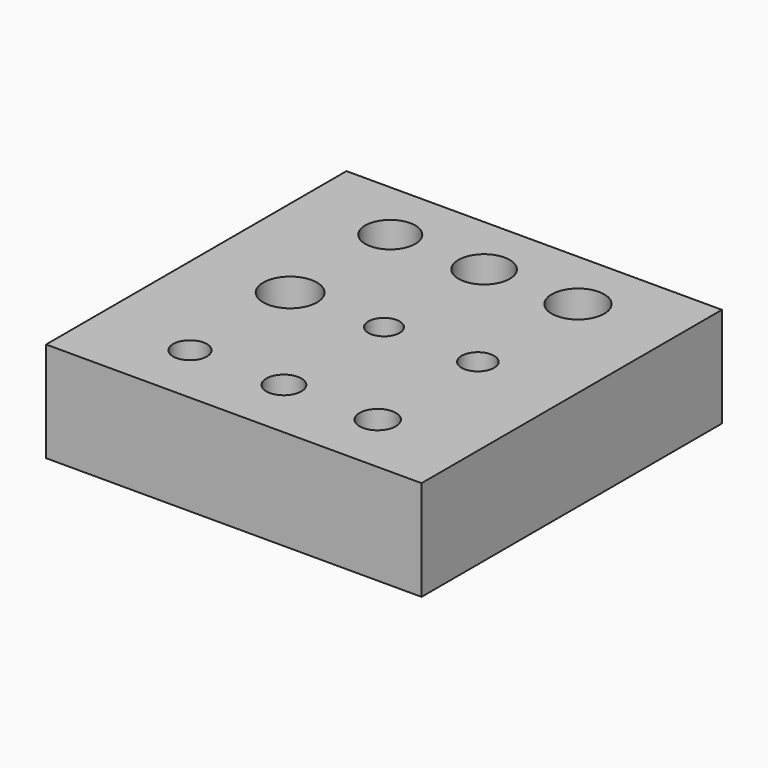
from build123d import *

# Parameters (mm, degrees)
SKETCH_W   = 30
SKETCH_H   = 30
SKETCH_R   = 2
SKETCH_R_2 = 2.05
SKETCH_R_3 = 2.1
SKETCH_R_4 = 2.15
SKETCH_R_5 = 1.25
SKETCH_R_6 = 1.45
SKETCH_R_7 = 1.4
SKETCH_R_8 = 1.35
SKETCH_R_9 = 1.3
PAD_DEPTH  = 8


with BuildPart() as part:
    # Sketch → Pad (new body)
    with BuildSketch(Plane.XY):
        Rectangle(SKETCH_W, SKETCH_H)
        with Locations((-7.5, 10)):
            Circle(SKETCH_R, mode=Mode.SUBTRACT)
        with Locations((0, 10)):
            Circle(SKETCH_R_2, mode=Mode.SUBTRACT)
        with Locations((7.5, 10)):
            Circle(SKETCH_R_3, mode=Mode.SUBTRACT)
        with Locations((-7.5, 0)):
            Circle(SKETCH_R_4, mode=Mode.SUBTRACT)
        Circle(SKETCH_R_5, mode=Mode.SUBTRACT)
        with Locations((7.5, -10)):
            Circle(SKETCH_R_6, mode=Mode.SUBTRACT)
        with Locations((0, -10)):
            Circle(SKETCH_R_7, mode=Mode.SUBTRACT)
        with Locations((-7.5, -10)):
            Circle(SKETCH_R_8, mode=Mode.SUBTRACT)
        with Locations((7.5, 0)):
            Circle(SKETCH_R_9, mode=Mode.SUBTRACT)
    extrude(amount=PAD_DEPTH)


solid = part.part
